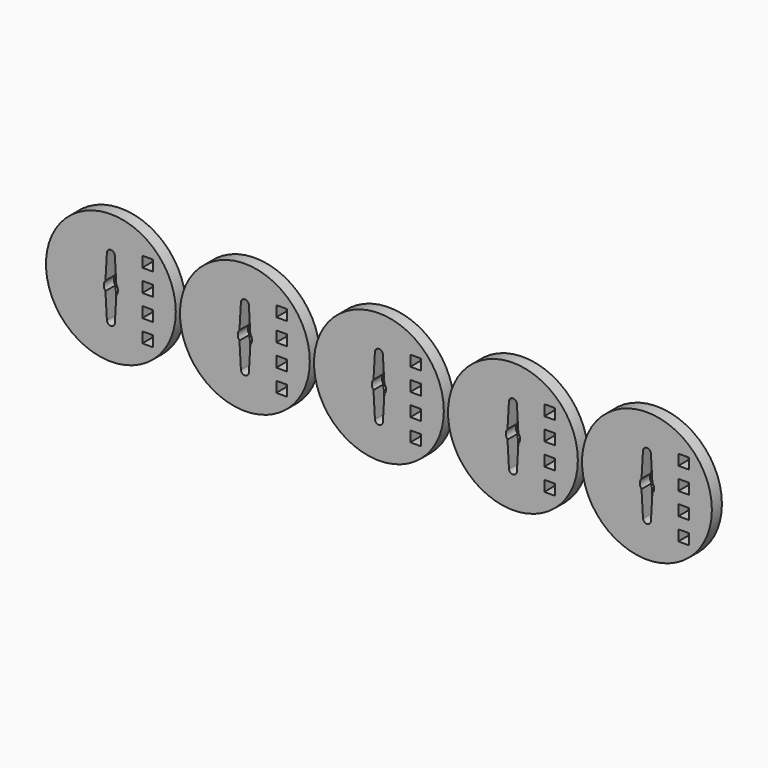
from build123d import *

# Parameters (mm, degrees)
F0_R     = 31
F0_W     = 5.1
F0_H     = 5.1
F1_DEPTH = 6


with BuildPart() as f1:
    # F0 (on Front) → F1 (new body)
    with BuildSketch(Plane.XZ):
        Circle(F0_R)
        with Locations((17.55, -15.9)):
            Rectangle(F0_W, F0_H, mode=Mode.SUBTRACT)
        with Locations((17.55, -5.3)):
            Rectangle(F0_W, F0_H, mode=Mode.SUBTRACT)
        with BuildLine():
            Line((-2.6, 2.19089), (-1.896757, 14.210971))
            ThreePointArc((-1.896757, 14.210971), (0, 16), (1.896757, 14.210971))
            Line((1.896757, 14.210971), (2.6, 2.19089))
            ThreePointArc((2.6, 2.19089), (3.4, 0), (2.6, -2.19089))
            Line((2.6, -2.19089), (1.896757, -14.210971))
            ThreePointArc((1.896757, -14.210971), (0, -16), (-1.896757, -14.210971))
            Line((-1.896757, -14.210971), (-2.6, -2.19089))
            ThreePointArc((-2.6, -2.19089), (-3.4, 0), (-2.6, 2.19089))
        make_face(mode=Mode.SUBTRACT)
        with Locations((17.55, 5.3)):
            Rectangle(F0_W, F0_H, mode=Mode.SUBTRACT)
        with Locations((17.55, 15.9)):
            Rectangle(F0_W, F0_H, mode=Mode.SUBTRACT)
        with Locations((64, 0)):
            Circle(F0_R)
        with Locations((81.55, -15.9)):
            Rectangle(F0_W, F0_H, mode=Mode.SUBTRACT)
        with Locations((81.55, -5.3)):
            Rectangle(F0_W, F0_H, mode=Mode.SUBTRACT)
        with BuildLine():
            Line((65.896757, 14.210971), (66.6, 2.19089))
            ThreePointArc((66.6, 2.19089), (67.4, 0), (66.6, -2.19089))
            Line((66.6, -2.19089), (65.896757, -14.210971))
            ThreePointArc((65.896757, -14.210971), (64, -16), (62.103243, -14.210971))
            Line((62.103243, -14.210971), (61.4, -2.19089))
            ThreePointArc((61.4, -2.19089), (60.6, 0), (61.4, 2.19089))
            Line((61.4, 2.19089), (62.103243, 14.210971))
            ThreePointArc((62.103243, 14.210971), (64, 16), (65.896757, 14.210971))
        make_face(mode=Mode.SUBTRACT)
        with Locations((81.55, 5.3)):
            Rectangle(F0_W, F0_H, mode=Mode.SUBTRACT)
        with Locations((81.55, 15.9)):
            Rectangle(F0_W, F0_H, mode=Mode.SUBTRACT)
        with Locations((128, 0)):
            Circle(F0_R)
        with Locations((145.55, -15.9)):
            Rectangle(F0_W, F0_H, mode=Mode.SUBTRACT)
        with Locations((145.55, -5.3)):
            Rectangle(F0_W, F0_H, mode=Mode.SUBTRACT)
        with BuildLine():
            Line((129.896757, 14.210971), (130.6, 2.19089))
            ThreePointArc((130.6, 2.19089), (131.4, 0), (130.6, -2.19089))
            Line((130.6, -2.19089), (129.896757, -14.210971))
            ThreePointArc((129.896757, -14.210971), (128, -16), (126.103243, -14.210971))
            Line((126.103243, -14.210971), (125.4, -2.19089))
            ThreePointArc((125.4, -2.19089), (124.6, 0), (125.4, 2.19089))
            Line((125.4, 2.19089), (126.103243, 14.210971))
            ThreePointArc((126.103243, 14.210971), (128, 16), (129.896757, 14.210971))
        make_face(mode=Mode.SUBTRACT)
        with Locations((145.55, 5.3)):
            Rectangle(F0_W, F0_H, mode=Mode.SUBTRACT)
        with Locations((145.55, 15.9)):
            Rectangle(F0_W, F0_H, mode=Mode.SUBTRACT)
        with Locations((192, 0)):
            Circle(F0_R)
        with Locations((209.55, -15.9)):
            Rectangle(F0_W, F0_H, mode=Mode.SUBTRACT)
        with Locations((209.55, -5.3)):
            Rectangle(F0_W, F0_H, mode=Mode.SUBTRACT)
        with BuildLine():
            Line((193.896757, 14.210971), (194.6, 2.19089))
            ThreePointArc((194.6, 2.19089), (195.4, 0), (194.6, -2.19089))
            Line((194.6, -2.19089), (193.896757, -14.210971))
            ThreePointArc((193.896757, -14.210971), (192, -16), (190.103243, -14.210971))
            Line((190.103243, -14.210971), (189.4, -2.19089))
            ThreePointArc((189.4, -2.19089), (188.6, 0), (189.4, 2.19089))
            Line((189.4, 2.19089), (190.103243, 14.210971))
            ThreePointArc((190.103243, 14.210971), (192, 16), (193.896757, 14.210971))
        make_face(mode=Mode.SUBTRACT)
        with Locations((209.55, 5.3)):
            Rectangle(F0_W, F0_H, mode=Mode.SUBTRACT)
        with Locations((209.55, 15.9)):
            Rectangle(F0_W, F0_H, mode=Mode.SUBTRACT)
        with Locations((256, 0)):
            Circle(F0_R)
        with Locations((273.55, -15.9)):
            Rectangle(F0_W, F0_H, mode=Mode.SUBTRACT)
        with Locations((273.55, -5.3)):
            Rectangle(F0_W, F0_H, mode=Mode.SUBTRACT)
        with BuildLine():
            Line((257.896757, 14.210971), (258.6, 2.19089))
            ThreePointArc((258.6, 2.19089), (259.4, 0), (258.6, -2.19089))
            Line((258.6, -2.19089), (257.896757, -14.210971))
            ThreePointArc((257.896757, -14.210971), (256, -16), (254.103243, -14.210971))
            Line((254.103243, -14.210971), (253.4, -2.19089))
            ThreePointArc((253.4, -2.19089), (252.6, 0), (253.4, 2.19089))
            Line((253.4, 2.19089), (254.103243, 14.210971))
            ThreePointArc((254.103243, 14.210971), (256, 16), (257.896757, 14.210971))
        make_face(mode=Mode.SUBTRACT)
        with Locations((273.55, 5.3)):
            Rectangle(F0_W, F0_H, mode=Mode.SUBTRACT)
        with Locations((273.55, 15.9)):
            Rectangle(F0_W, F0_H, mode=Mode.SUBTRACT)
    extrude(amount=F1_DEPTH)


solid = f1.part
